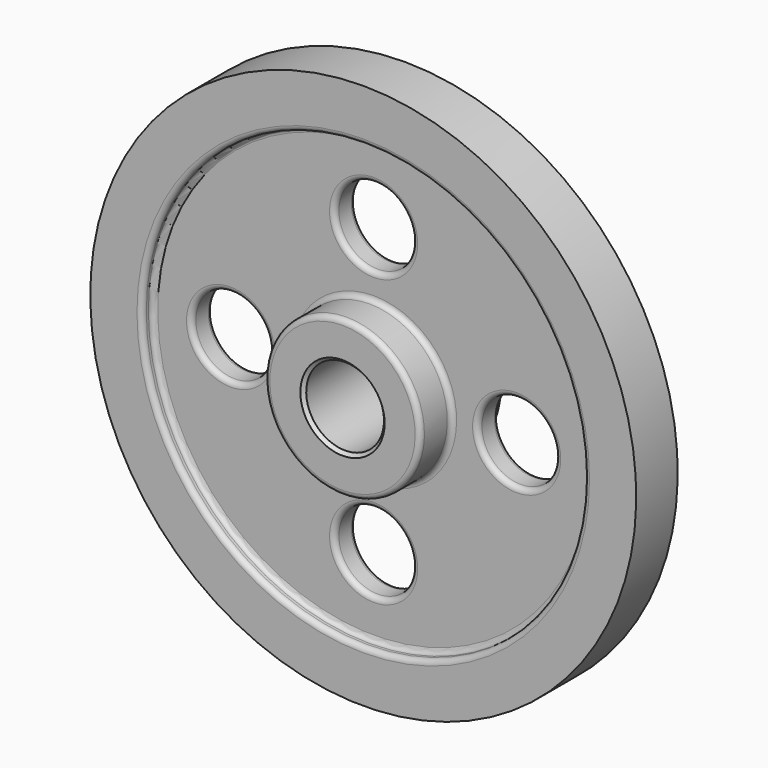
from build123d import *

# Parameters (mm, degrees)
F2_R     = 19.05
F3_DEPTH = 25.4
F4_R     = 2.54
F5_SIZE  = 1.5875


with BuildPart() as f1:
    # F0 (on Right) → F1 (revolve)
    with BuildSketch(Plane.YZ):
        Polygon((0, 19.05), (25.4, 19.05), (25.4, 38.1), (6.35, 38.1), (6.35, 108.2865435958), (12.7, 108.2865435958), (12.7, 133.6865435958), (-12.7, 133.6865435958), (-12.7, 108.2865435958), (-6.35, 108.2865435958), (-6.35, 38.1), (-25.4, 38.1), (-25.4, 19.05), align=None)
    revolve(axis=Axis((0, 40.6654, 0), (0, 1, 0)))

    # F2 (on face) → F3 (cut)
    with BuildSketch(Plane.XZ.offset(6.35)):
        with Locations((70.0532, 0)):
            Circle(F2_R)
        with Locations((0, -70.0532)):
            Circle(F2_R)
        with Locations((-70.0532, 0)):
            Circle(F2_R)
        with BuildLine():
            ThreePointArc((19.05, 70.0532), (-13.4703841816, 83.5235841816), (0, 51.0032))
            ThreePointArc((0, 51.0032), (13.4703841816, 56.5828158184), (19.05, 70.0532))
        make_face()
    extrude(amount=-F3_DEPTH, mode=Mode.SUBTRACT)

    # F4
    f4_edges = [f1.edges().sort_by_distance(p)[0] for p in [
        (0, 25.4, -38.1),
        (0, 6.35, -38.1),
        (0, 12.7, -108.286544),
        (0, 6.35, -108.286544),
        (-89.1032, 6.35, 0),
        (0, 6.35, 89.1032),
        (-19.05, 6.35, -70.0532),
        (51.0032, 6.35, 0),
        (0, -25.4, -38.1),
        (0, -6.35, -38.1),
        (0, -12.7, -108.286544),
        (0, -6.35, -108.286544),
        (-89.1032, -6.35, 0),
        (-19.05, -6.35, -70.0532),
        (0, -6.35, 89.1032),
        (51.0032, -6.35, 0),
    ]]
    fillet(f4_edges, radius=F4_R)

    # F5
    f5_edges = [f1.edges().sort_by_distance(p)[0] for p in [
        (0, -25.4, -19.05),
        (0, 25.4, -19.05),
    ]]
    chamfer(f5_edges, length=F5_SIZE)


solid = f1.part
